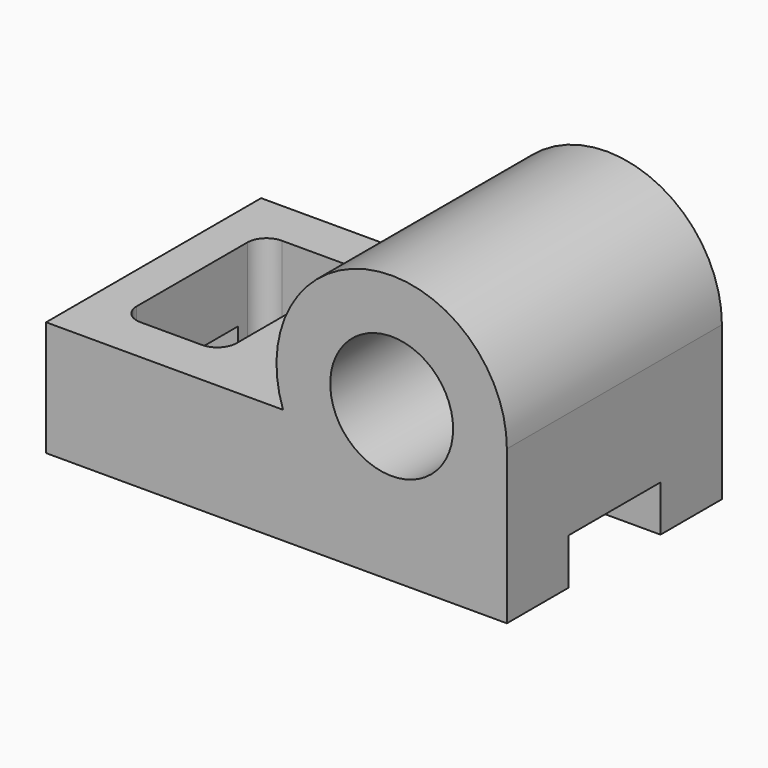
from build123d import *

# Parameters (mm, degrees)
F1_DEPTH = 1778
F2_R     = 406.4
F3_DEPTH = 25.4
F4_DEPTH = 1803.401
F5_W     = 762
F5_H     = 304.8
F6_DEPTH = 3048.001
F8_DEPTH = 762.001


with BuildPart() as f1:
    # F0 (on Front) → F1 (new body)
    with BuildSketch(Plane.XZ):
        with BuildLine():
            Line((-1524, 381), (-1524, -381))
            Line((-1524, -381), (762, -381))
            Line((762, -381), (762, -127))
            ThreePointArc((762, -127), (322.0590948775, 12.8296053331), (43.5795103145, 381))
            Line((43.5795103145, 381), (-1524, 381))
        make_face()
        with BuildLine():
            Line((762, -127), (762, -381))
            Line((762, -381), (1524, -381))
            Line((1524, -381), (1524, 381))
            Line((1524, 381), (1480.4204896855, 381))
            ThreePointArc((1480.4204896855, 381), (1201.9409051225, 12.8296053331), (762, -127))
        make_face()
        with BuildLine():
            ThreePointArc((43.5795103145, 381), (322.0590948775, 12.8296053331), (762, -127))
            ThreePointArc((762, -127), (1201.9409051225, 12.8296053331), (1480.4204896855, 381))
            Line((1480.4204896855, 381), (43.5795103145, 381))
        make_face()
        with BuildLine():
            ThreePointArc((1524, 635), (633.144292211, 1386.026102456), (43.5795103145, 381))
            Line((43.5795103145, 381), (1480.4204896855, 381))
            ThreePointArc((1480.4204896855, 381), (1513.026102456, 506.144292211), (1524, 635))
        make_face()
        with BuildLine():
            Line((1480.4204896855, 381), (1524, 381))
            Line((1524, 381), (1524, 635))
            ThreePointArc((1524, 635), (1513.026102456, 506.144292211), (1480.4204896855, 381))
        make_face()
    extrude(amount=F1_DEPTH)

    # F2 (on face) → F3 (join)
    with BuildSketch(Plane.XZ.offset(1778)):
        with Locations((762, 635)):
            Circle(F2_R)
    extrude(amount=F3_DEPTH)

    # F4 (cut, through all): a face of the model
    f4_faces = [f1.faces().sort_by_distance(p)[0] for p in [
        (762, -1803.4, 635),
    ]]
    extrude(f4_faces, amount=-F4_DEPTH, mode=Mode.SUBTRACT)

    # F5 (on face) → F6 (cut, through all)
    with BuildSketch(Plane(origin=(-1524, 0, 0), x_dir=(0, -1, 0), z_dir=(-1, 0, 0))):
        with Locations((889, -228.6)):
            Rectangle(F5_W, F5_H)
    extrude(amount=-F6_DEPTH, mode=Mode.SUBTRACT)

    # F7 (on face) → F8 (cut, through all)
    with BuildSketch(Plane.XY.offset(381)):
        with BuildLine():
            Line((-1270, -431.8), (-1270, -1346.2))
            ThreePointArc((-1270, -1346.2), (-1232.8025612107, -1436.0025612107), (-1143, -1473.2))
            Line((-1143, -1473.2), (-736.6, -1473.2))
            ThreePointArc((-736.6, -1473.2), (-646.7974387893, -1436.0025612107), (-609.6, -1346.2))
            Line((-609.6, -1346.2), (-609.6, -431.8))
            ThreePointArc((-609.6, -431.8), (-646.7974387893, -341.9974387893), (-736.6, -304.8))
            Line((-736.6, -304.8), (-1143, -304.8))
            ThreePointArc((-1143, -304.8), (-1232.8025612107, -341.9974387893), (-1270, -431.8))
        make_face()
    extrude(amount=-F8_DEPTH, mode=Mode.SUBTRACT)


solid = f1.part
